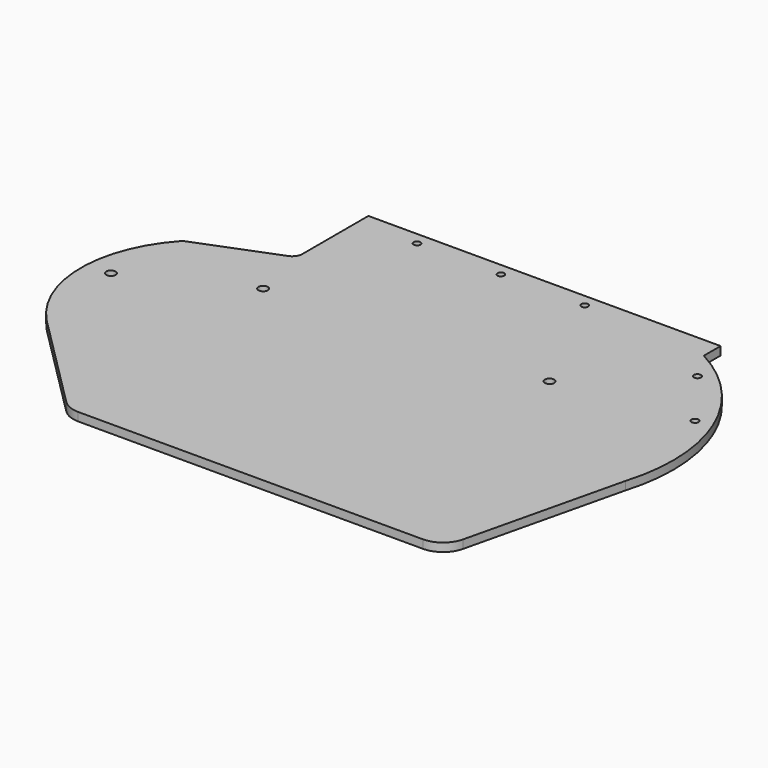
from build123d import *

# Parameters (mm, degrees)
F1_DEPTH = 6.35
F2_R     = 2.579688
F3_DEPTH = 6.35
F4_R     = 3.571875
F5_DEPTH = 9.525
F6_R     = 2.667
F7_DEPTH = 7.62


with BuildPart() as f1:
    # F0 (on Top) → F1 (new body)
    with BuildSketch(Plane.XY):
        with BuildLine():
            Line((356.607027, 293.18534), (89.907027, 293.18534))
            Line((89.907027, 293.18534), (89.907027, 230.838141))
            ThreePointArc((89.907027, 230.838141), (88.528545, 226.367885), (84.871893, 223.450301))
            Line((84.871893, 223.450301), (25.612706, 200.169907))
            ThreePointArc((25.612706, 200.169907), (24.332233, 199.488924), (23.239671, 198.535164))
            ThreePointArc((23.239671, 198.535164), (-1.297086, 134.001926), (24.781553, 70.076219))
            Line((24.781553, 70.076219), (99.27516, -4.417388))
            ThreePointArc((99.27516, -4.417388), (105.455425, -8.546909), (112.745544, -9.997004))
            Line((112.745544, -9.997004), (373.810915, -9.997004))
            ThreePointArc((373.810915, -9.997004), (385.618685, -5.89622), (392.342874, 4.640625))
            Line((392.342874, 4.640625), (420.607724, 123.352996))
            ThreePointArc((420.607724, 123.352996), (416.146731, 211.779891), (356.607027, 277.31034))
            Line((356.607027, 277.31034), (356.607027, 293.18534))
        make_face()
    extrude(amount=F1_DEPTH)

    # F2 (on face) → F3 (cut, through all)
    with BuildSketch(Plane.XY.offset(6.35)):
        with Locations((261.357027, 283.66034)):
            Circle(F2_R)
        with Locations((197.857027, 283.66034)):
            Circle(F2_R)
        with Locations((134.357027, 283.66034)):
            Circle(F2_R)
    extrude(amount=-F3_DEPTH, mode=Mode.SUBTRACT)

    # F4 (on face) → F5 (cut)
    with BuildSketch(Plane.XY.offset(6.35)):
        with Locations((99.432027, 181.663465)):
            Circle(F4_R)
        with Locations((16.882027, 140.78534)):
            Circle(F4_R)
        with Locations((305.807027, 194.76034)):
            Circle(F4_R)
    extrude(amount=-F5_DEPTH, mode=Mode.SUBTRACT)

    # F6 (on face) → F7 (cut)
    with BuildSketch(Plane.XY.offset(6.35)):
        with Locations((370.04372, 254.438187)):
            Circle(F6_R)
        with Locations((404.631483, 208.943032)):
            Circle(F6_R)
    extrude(amount=-F7_DEPTH, mode=Mode.SUBTRACT)


solid = f1.part
